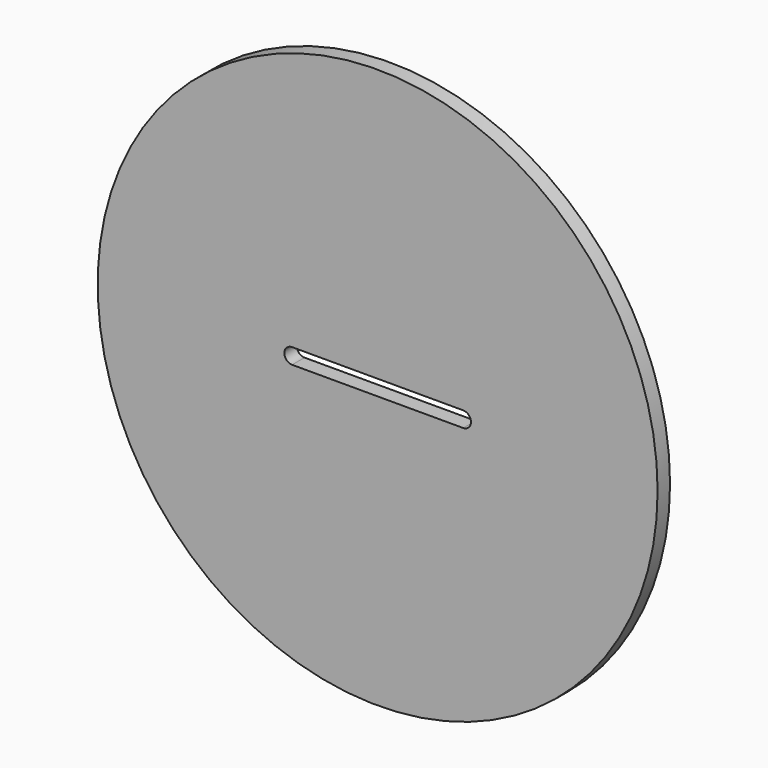
from build123d import *

# Parameters (mm, degrees)
F0_R     = 457.2
F1_DEPTH = 25.4


with BuildPart() as f1:
    # F0 (on Front) → F1 (new body)
    with BuildSketch(Plane.XZ):
        Circle(F0_R)
        with BuildLine():
            ThreePointArc((-139.7, -12.7), (-152.4, 0), (-139.7, 12.7))
            Line((-139.7, 12.7), (139.7, 12.7))
            ThreePointArc((139.7, 12.7), (152.4, 0), (139.7, -12.7))
            Line((139.7, -12.7), (-139.7, -12.7))
        make_face(mode=Mode.SUBTRACT)
    extrude(amount=F1_DEPTH)


solid = f1.part
